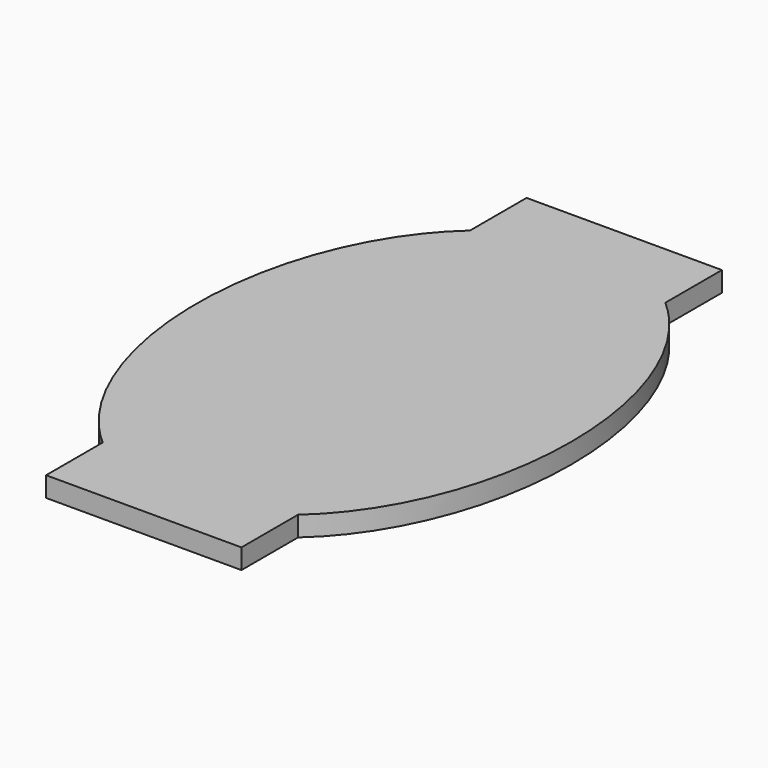
from build123d import *

# Parameters (mm, degrees)
PAD_DEPTH    = 1.24
SKETCH001_W  = 12.1
SKETCH001_H  = 37.2
PAD001_DEPTH = 1.24


with BuildPart() as part:
    # Sketch → Pad (new body)
    with BuildSketch(Plane.XY):
        with BuildLine():
            add(Edge.make_bspline(
                [(0, 16.665), (-20.091789, 16.665), (-10.045895, -8.3325), (0, -33.33), (10.045895, -8.3325), (20.091789, 16.665), (0, 16.665)],
                knots=[0, 0, 0, 2.094395, 2.094395, 4.18879, 4.18879, 6.283185, 6.283185, 6.283185], degree=2, weights=[1, 0.5, 1, 0.5, 1, 0.5, 1]))
        make_face()
    extrude(amount=PAD_DEPTH)

    # Sketch001 (on Face2 of Pad) → Pad001 (join)
    with BuildSketch(Plane(origin=(0, 0, 0), x_dir=(1, 0, 0), z_dir=(0, 0, -1))):
        Rectangle(SKETCH001_W, SKETCH001_H)
    extrude(amount=-PAD001_DEPTH)


solid = part.part
